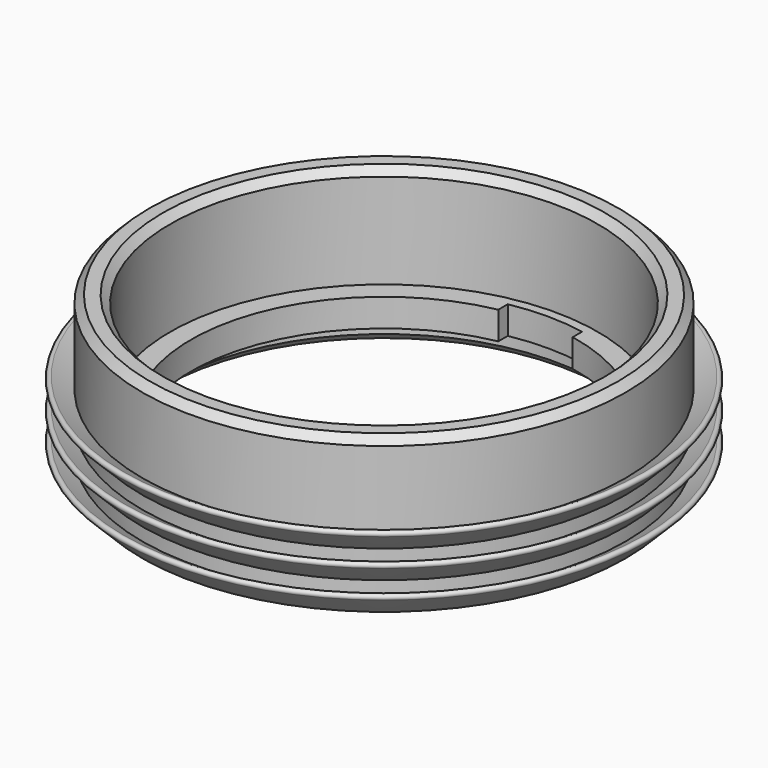
from build123d import *

# Parameters (mm, degrees)
POCKET_DEPTH        = 167.235867
POLARPATTERN_COUNT  = 2
LINEARPATTERN_COUNT = 3
LINEARPATTERN_PITCH = 3
CHAMFER_SIZE        = 0.8


with BuildPart() as part:
    # Sketch → Revolution (revolve)
    with BuildSketch(Plane.XZ):
        Polygon((20.75, 2.5), (23, 2.5), (23, 0), (26, 0), (26, 16.5), (23, 16.5), (23, 5.5), (20.75, 5.5), align=None)
    revolve(axis=Axis((0, 0, 0), (0, 0, 1)))

    # Sketch001 → Pocket (cut, through all)
    with BuildSketch(Plane.XY):
        with BuildLine():
            Line((-4, 21.633308), (-4, 11.633308))
            Line((-4, 11.633308), (4, 11.633308))
            Line((4, 11.633308), (4, 21.633308))
            ThreePointArc((4, 21.633308), (0, 22), (-4, 21.633308))
        make_face()
    pocket = extrude(amount=POCKET_DEPTH, mode=Mode.SUBTRACT)

    # PolarPattern: Pocket ×2 about axis
    polarpattern_axis = Axis((0, 0, 0), (0, 0, 1))
    for i in range(1, POLARPATTERN_COUNT):
        add(pocket.rotate(polarpattern_axis, i * 360 / POLARPATTERN_COUNT), mode=Mode.SUBTRACT)

    # Sketch002 → Revolution001 (revolve)
    with BuildSketch(Plane.XZ):
        with BuildLine():
            Line((26, 0), (28.312132, 2.312132))
            ThreePointArc((28.312132, 2.312132), (28.33597, 2.709516), (27.944285, 2.780687))
            Line((27.944285, 2.780687), (26, 1.6))
            Line((26, 1.6), (26, 0))
        make_face()
    revolution001 = revolve(axis=Axis((0, 0, 0), (0, 0, 1)))

    # LinearPattern: Revolution001 ×3
    with Locations(*[(0, 0, i * LINEARPATTERN_PITCH) for i in range(1, LINEARPATTERN_COUNT)]):
        add(revolution001)

    # Chamfer
    chamfer_edges = [part.edges().sort_by_distance(p)[0] for p in [
        (-23, 0, 16.5),
        (-26, 0, 16.5),
        (-23, 0, 0),
    ]]
    chamfer(chamfer_edges, length=CHAMFER_SIZE)


solid = part.part
